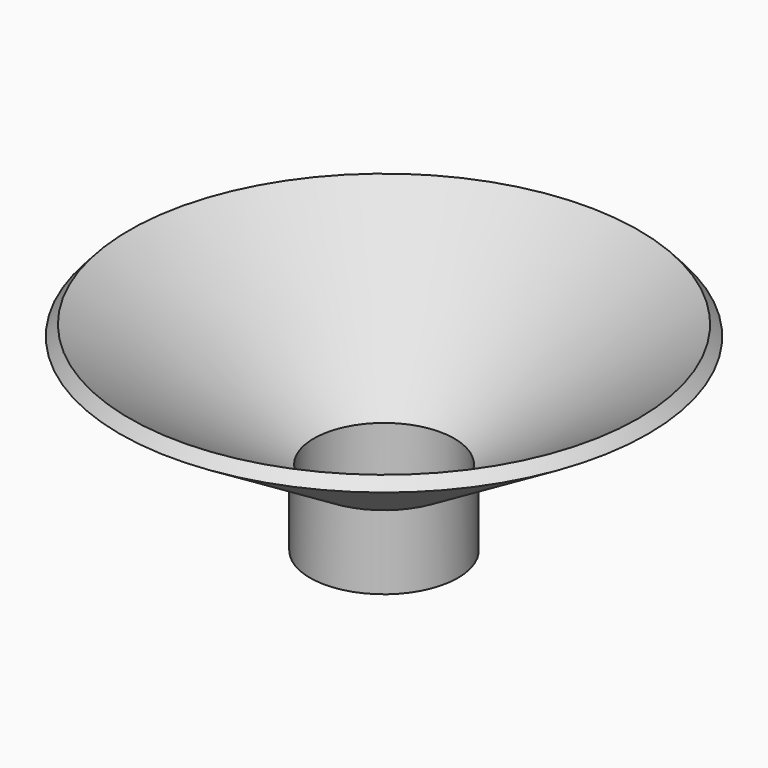
from build123d import *

# Parameters (mm, degrees)
F2_R     = 24.128144
F3_DEPTH = 762


with BuildPart() as f1:
    # F0 (on Front) → F1 (revolve)
    with BuildSketch(Plane.XZ):
        Polygon((-25.4, 0), (0, 0), (0, 25.4), (65.265929, 64.72936), (62.027667, 68.40115), (-2.210943, 25.4), (-25.4, 25.4), align=None)
    revolve(axis=Axis((-25.4, 0, 12.7), (0, 0, 1)))

    # F2 (on face) → F3 (cut)
    with BuildSketch(Plane(origin=(0, 0, 0), x_dir=(1, 0, 0), z_dir=(0, 0, -1))):
        with Locations((-25.4, 0)):
            Circle(F2_R)
    extrude(amount=-F3_DEPTH, mode=Mode.SUBTRACT)


solid = f1.part
